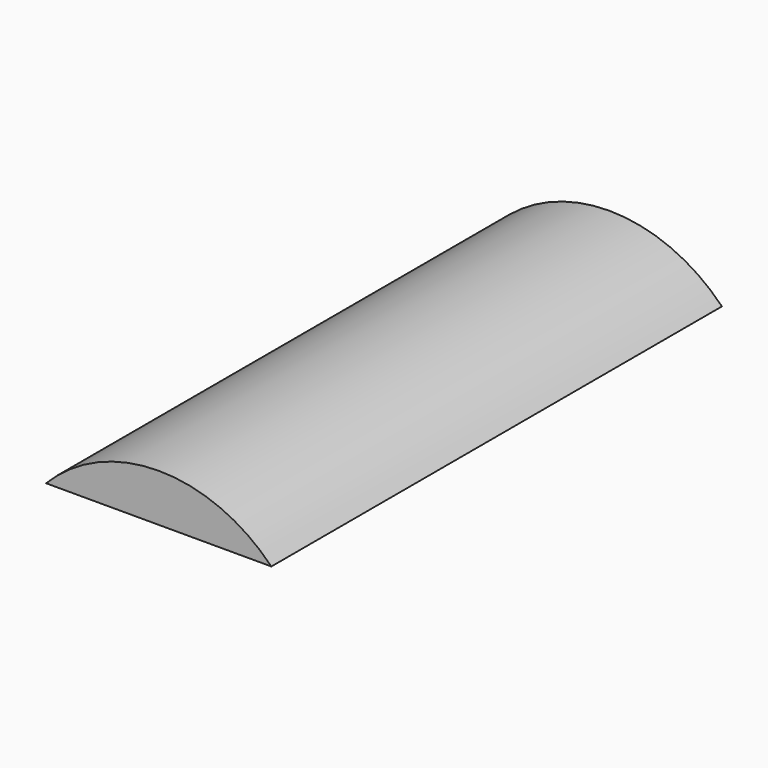
from build123d import *

# Parameters (mm, degrees)
F1_DEPTH = 75


with BuildPart() as f1:
    # F0 (on Front) → F1 (new body, symmetric)
    with BuildSketch(Plane.XZ):
        with BuildLine():
            ThreePointArc((14.9999966252, 0), (-15.0000033748, 12.6895002696), (-45.0000033748, 0))
            Line((-45.0000033748, 0), (14.9999966252, 0))
        make_face()
    extrude(amount=F1_DEPTH, both=True)


solid = f1.part
